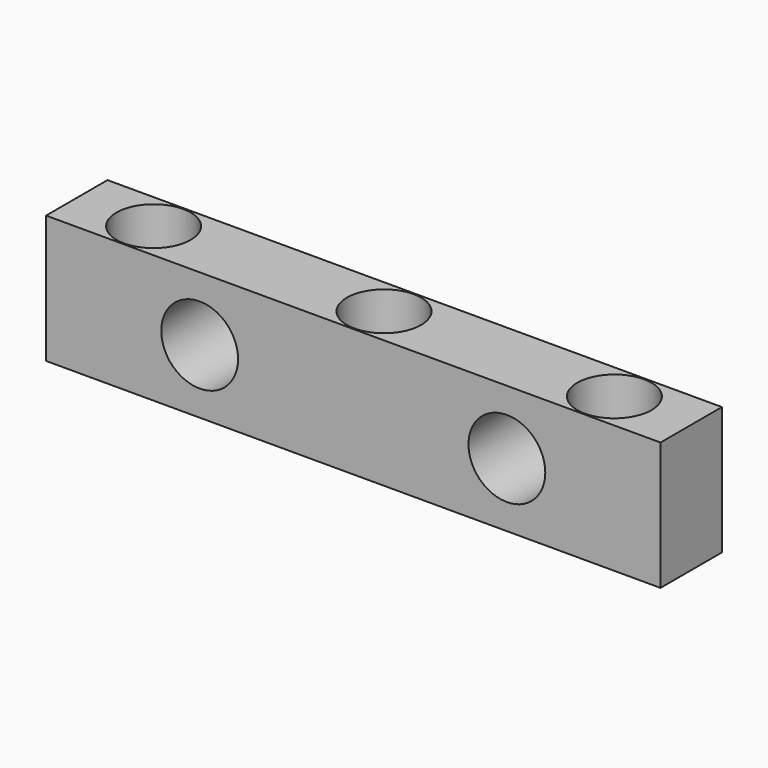
from build123d import *

# Parameters (mm, degrees)
F0_W     = 38.1
F0_H     = 4.7625
F0_R     = 2.301875
F1_DEPTH = 7.9375
F2_R     = 2.38125
F3_DEPTH = 25.4


with BuildPart() as f1:
    # F0 (on Top) → F1 (new body)
    with BuildSketch(Plane.XY):
        with Locations((19.05, 2.38125)):
            Rectangle(F0_W, F0_H)
        with Locations((4.7625, 2.38125)):
            Circle(F0_R, mode=Mode.SUBTRACT)
        with Locations((19.05, 2.38125)):
            Circle(F0_R, mode=Mode.SUBTRACT)
        with Locations((33.3375, 2.38125)):
            Circle(F0_R, mode=Mode.SUBTRACT)
        with Locations((19.05, 2.38125)):
            Rectangle(F0_W, F0_H)
        with Locations((4.7625, 2.38125)):
            Circle(F0_R, mode=Mode.SUBTRACT)
        with Locations((19.05, 2.38125)):
            Circle(F0_R, mode=Mode.SUBTRACT)
        with Locations((33.3375, 2.38125)):
            Circle(F0_R, mode=Mode.SUBTRACT)
    extrude(amount=F1_DEPTH)

    # F2 (on face) → F3 (cut)
    with BuildSketch(Plane.XZ):
        with Locations((28.575, 3.96875)):
            Circle(F2_R)
        with Locations((9.525, 3.96875)):
            Circle(F2_R)
    extrude(amount=-F3_DEPTH, mode=Mode.SUBTRACT)


solid = f1.part
